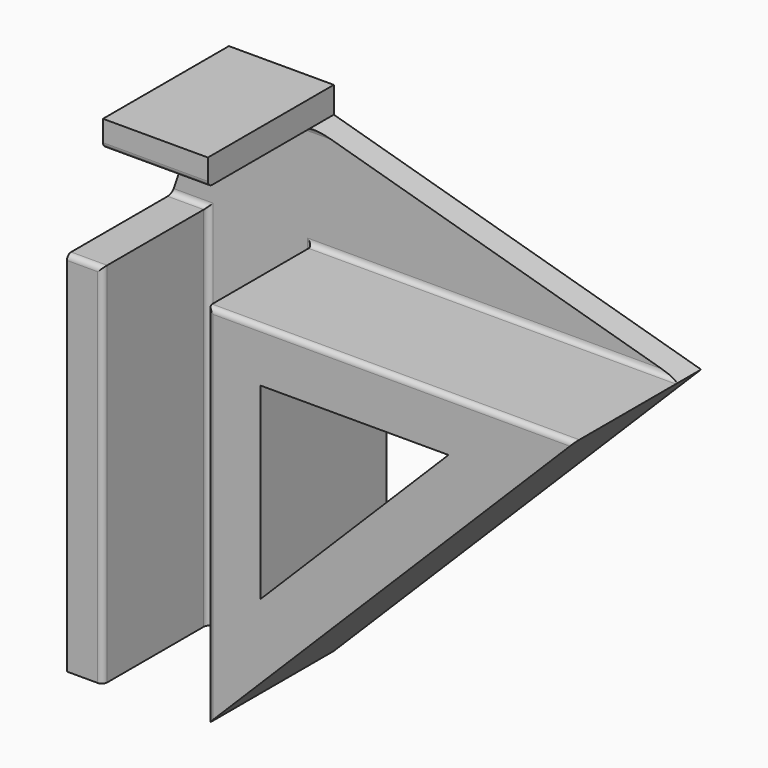
from build123d import *

# Parameters (mm, degrees)
F1_DEPTH = 5
F2_W     = 20
F2_H     = 5
F2_W_2   = 6.8679952621
F2_H_2   = 70
F3_DEPTH = 25
F4_R     = 1
F6_DEPTH = 30.001


with BuildPart() as f1:
    # F0 (on Front) → F1 (new body)
    with BuildSketch(Plane.XZ):
        Polygon((10, 15), (0, 15), (-10, 15), (-10, 10), (-16.8679952621, -10), (-16.8679952621, -80), (0, -80), (10, -80), (80, -10), (10, 10), align=None)
    extrude(amount=-F1_DEPTH)

    # F2 (on face) → F3 (join)
    with BuildSketch(Plane.XZ):
        with Locations((0, 12.5)):
            Rectangle(F2_W, F2_H)
        Polygon((10, -80), (80, -10), (10, -10), align=None)
        with Locations((-13.4339976311, -45)):
            Rectangle(F2_W_2, F2_H_2)
    extrude(amount=F3_DEPTH)

    # F4
    f4_edges = [f1.edges().sort_by_distance(p)[0] for p in [
        (0, 0, 10),
        (-13.433998, 0, -10),
        (45, 0, -10),
        (10, 0, -45),
        (-10, 0, -45),
        (0, -25, 10),
        (45, -25, -10),
        (10, -25, -45),
        (-13.433998, -25, -10),
        (-10, -25, -45),
    ]]
    fillet(f4_edges, radius=F4_R)

    # F5 (on face) → F6 (cut, through all)
    with BuildSketch(Plane.XZ.offset(25)):
        Polygon((55.8578643763, -20), (20, -20), (20, -55.8578643763), align=None)
    extrude(amount=-F6_DEPTH, mode=Mode.SUBTRACT)


solid = f1.part
